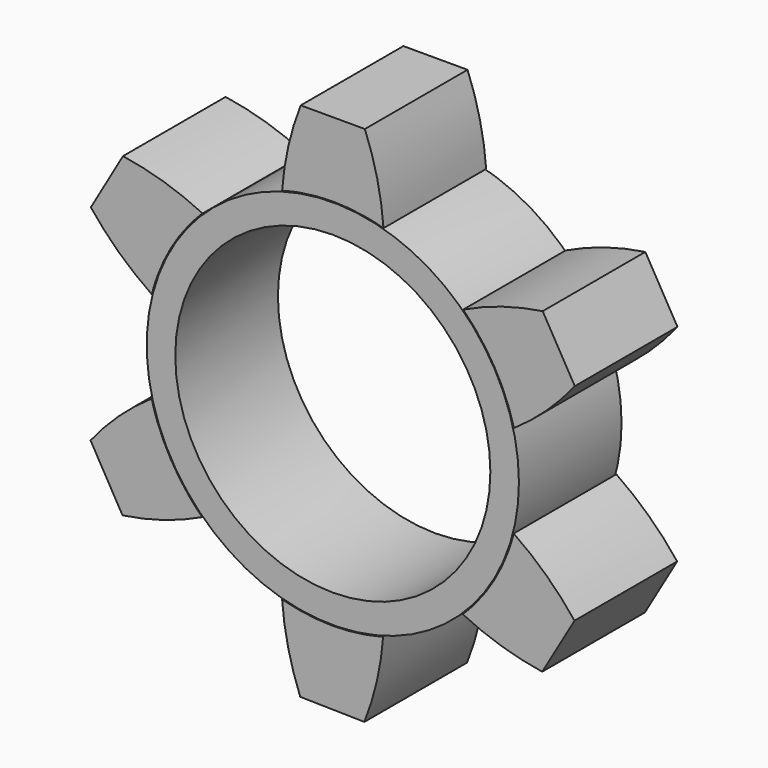
from build123d import *

# Parameters (mm, degrees)
F1_DEPTH = 25.4
F2_R     = 36.839907
F3_DEPTH = 25.4
F4_R     = 31.187406
F5_DEPTH = 44.704


with BuildPart() as f1:
    # F0 (on Front) → F1 (new body)
    with BuildSketch(Plane.XZ):
        with BuildLine():
            ThreePointArc((-10.035525, 35.591856), (-8.203482, 36.058215), (-6.35, 36.430338))
            Line((-6.35, 36.430338), (-6.35, 51.670338))
            ThreePointArc((-6.35, 51.670338), (-8.807128, 43.771922), (-10.035525, 35.591856))
        make_face()
        with BuildLine():
            ThreePointArc((-6.35, 36.430338), (0, 36.979616), (6.35, 36.430338))
            Line((6.35, 36.430338), (6.35, 51.670338))
            Line((6.35, 51.670338), (-6.35, 51.670338))
            Line((-6.35, 51.670338), (-6.35, 36.430338))
        make_face()
        with BuildLine():
            ThreePointArc((6.35, 36.430338), (8.203482, 36.058215), (10.035524, 35.591856))
            ThreePointArc((10.035524, 35.591856), (8.807127, 43.771922), (6.35, 51.670338))
            Line((6.35, 51.670338), (6.35, 36.430338))
        make_face()
        with BuildLine():
            ThreePointArc((25.781413, 26.510577), (27.102552, 25.158371), (28.35286, 23.740415))
            Line((28.35286, 23.740415), (41.544101, 31.372503))
            ThreePointArc((41.544101, 31.372503), (33.476981, 29.543839), (25.781413, 26.510577))
        make_face()
        with BuildLine():
            ThreePointArc((28.35286, 23.740415), (32.008334, 18.519139), (34.712934, 12.747714))
            Line((34.712934, 12.747714), (47.904174, 20.379802))
            Line((47.904174, 20.379802), (41.544101, 31.372503))
            Line((41.544101, 31.372503), (28.35286, 23.740415))
        make_face()
        with BuildLine():
            Line((47.904174, 20.379802), (34.712934, 12.747714))
            ThreePointArc((34.712934, 12.747714), (35.319048, 10.957045), (35.832858, 9.13774))
            ThreePointArc((35.832858, 9.13774), (42.29808, 14.297522), (47.904174, 20.379802))
        make_face()
        with BuildLine():
            ThreePointArc((47.84674, -20.514281), (42.257752, -14.416277), (35.807049, -9.238356))
            ThreePointArc((35.807049, -9.238356), (35.288131, -11.05621), (34.67699, -12.84517))
            Line((34.67699, -12.84517), (47.84674, -20.514281))
        make_face()
        with BuildLine():
            Line((47.84674, -20.514281), (34.67699, -12.84517))
            ThreePointArc((34.67699, -12.84517), (31.956189, -18.608975), (28.286064, -23.819962))
            Line((28.286064, -23.819962), (41.455815, -31.489073))
            Line((41.455815, -31.489073), (47.84674, -20.514281))
        make_face()
        with BuildLine():
            Line((41.455815, -31.489073), (28.286064, -23.819962))
            ThreePointArc((28.286064, -23.819962), (27.031778, -25.234401), (25.706846, -26.582891))
            ThreePointArc((25.706846, -26.582891), (33.393863, -29.637756), (41.455815, -31.489073))
        make_face()
        with BuildLine():
            ThreePointArc((6.247645, -51.68803), (8.721601, -43.791786), (9.966517, -35.611242))
            ThreePointArc((9.966517, -35.611242), (8.11787, -36.077585), (6.247645, -36.44803))
            Line((6.247645, -36.44803), (6.247645, -51.68803))
        make_face()
        with BuildLine():
            ThreePointArc((-6.450075, -36.412752), (-8.257493, -36.045885), (-10.044373, -35.58936))
            ThreePointArc((-10.044373, -35.58936), (-8.844429, -43.653756), (-6.450075, -51.447434))
            Line((-6.450075, -51.447434), (-6.450075, -36.412752))
        make_face()
        with BuildLine():
            Line((6.247645, -51.68803), (6.247645, -36.44803))
            ThreePointArc((6.247645, -36.44803), (-0.102741, -36.979473), (-6.450075, -36.412752))
            Line((-6.450075, -36.412752), (-6.450075, -51.447434))
            Line((-6.450075, -51.447434), (6.247645, -51.68803))
        make_face()
        with BuildLine():
            ThreePointArc((-34.74783, -12.652286), (-35.349021, -10.859958), (-35.85783, -9.039248))
            ThreePointArc((-35.85783, -9.039248), (-42.337205, -14.181245), (-47.959991, -20.248099))
            Line((-47.959991, -20.248099), (-34.74783, -12.652286))
        make_face()
        with BuildLine():
            ThreePointArc((-41.630146, -31.258234), (-33.558032, -29.451743), (-25.854159, -26.439638))
            ThreePointArc((-25.854159, -26.439638), (-27.171578, -25.083807), (-28.417985, -23.66242))
            Line((-28.417985, -23.66242), (-41.630146, -31.258234))
        make_face()
        with BuildLine():
            ThreePointArc((-28.417985, -23.66242), (-32.059098, -18.43112), (-34.74783, -12.652286))
            Line((-34.74783, -12.652286), (-47.959991, -20.248099))
            Line((-47.959991, -20.248099), (-41.630146, -31.258234))
            Line((-41.630146, -31.258234), (-28.417985, -23.66242))
        make_face()
        with BuildLine():
            ThreePointArc((-47.904174, 20.379802), (-42.29808, 14.297522), (-35.832858, 9.13774))
            ThreePointArc((-35.832858, 9.13774), (-35.319048, 10.957045), (-34.712934, 12.747714))
            Line((-34.712934, 12.747714), (-47.904174, 20.379802))
        make_face()
        with BuildLine():
            ThreePointArc((-28.35286, 23.740415), (-27.102552, 25.158371), (-25.781413, 26.510577))
            ThreePointArc((-25.781413, 26.510577), (-33.476981, 29.543839), (-41.544101, 31.372503))
            Line((-41.544101, 31.372503), (-28.35286, 23.740415))
        make_face()
        with BuildLine():
            ThreePointArc((-34.712934, 12.747714), (-32.008334, 18.519139), (-28.35286, 23.740415))
            Line((-28.35286, 23.740415), (-41.544101, 31.372503))
            Line((-41.544101, 31.372503), (-47.904174, 20.379802))
            Line((-47.904174, 20.379802), (-34.712934, 12.747714))
        make_face()
    extrude(amount=F1_DEPTH)


with BuildPart() as f3:
    # F2 (on face) → F3 (new body)
    with BuildSketch(Plane.XZ.offset(25.4)):
        Circle(F2_R)
    extrude(amount=-F3_DEPTH)

    # F4 (on face) → F5 (cut)
    with BuildSketch(Plane.XZ.offset(25.4)):
        Circle(F4_R)
    extrude(amount=-F5_DEPTH, mode=Mode.SUBTRACT)


solid = Compound([f1.part, f3.part])
